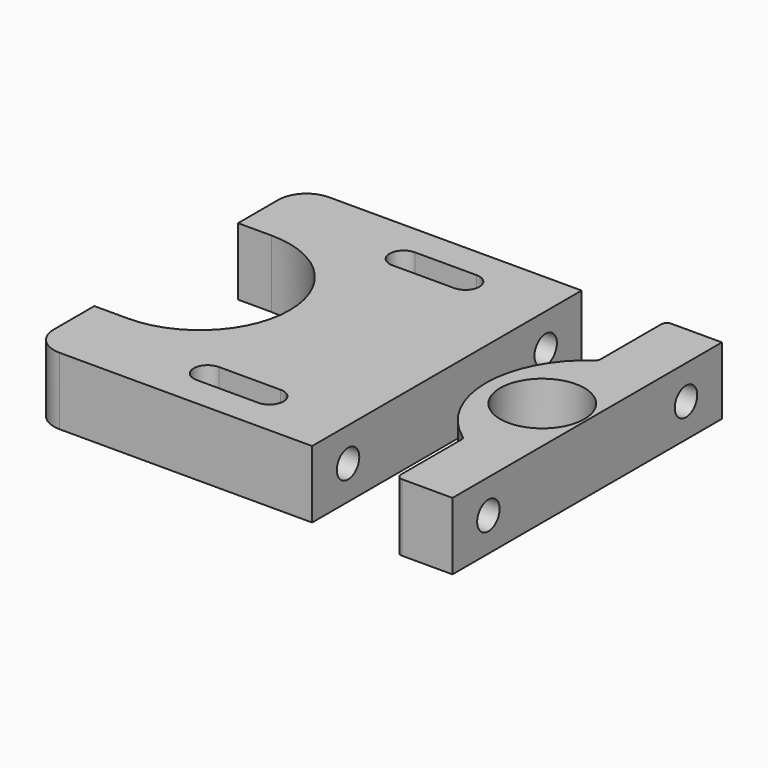
from build123d import *

# Parameters (mm, degrees)
F1_DEPTH  = 12
F2_R      = 2.5
F3_DEPTH  = 15
F4_R      = 5
F5_R      = 7.5
F6_DEPTH  = 12
F5_R_2    = 5
F7_DEPTH  = 2
F6_FACE_W = 60
F6_FACE_H = 12
F8_DEPTH  = 25
F9_R      = 1


with BuildPart() as f1:
    # F0 (on Top) → F1 (new body)
    with BuildSketch(Plane.XY):
        with BuildLine():
            Line((6.248017, -30), (6.248017, 0))
            Line((6.248017, 0), (6.248017, 30))
            Line((6.248017, 30), (-43.751983, 30))
            Line((-43.751983, 30), (-43.751983, 16))
            Line((-43.751983, 16), (-37.751983, 16))
            ThreePointArc((-37.751983, 16), (-21.751983, 0), (-37.751983, -16))
            Line((-37.751983, -16), (-43.751983, -16))
            Line((-43.751983, -16), (-43.751983, -30))
            Line((-43.751983, -30), (6.248017, -30))
        make_face()
        with BuildLine():
            ThreePointArc((-7.751983, -19.5), (-5.251983, -22), (-7.751983, -24.5))
            Line((-7.751983, -24.5), (-18.751983, -24.5))
            ThreePointArc((-18.751983, -24.5), (-21.251983, -22), (-18.751983, -19.5))
            Line((-18.751983, -19.5), (-7.751983, -19.5))
        make_face(mode=Mode.SUBTRACT)
        with BuildLine():
            ThreePointArc((-8.051984, 24.5), (-5.551984, 22), (-8.051984, 19.5))
            Line((-8.051984, 19.5), (-19.051984, 19.5))
            ThreePointArc((-19.051984, 19.5), (-21.551984, 22), (-19.051984, 24.5))
            Line((-19.051984, 24.5), (-8.051984, 24.5))
        make_face(mode=Mode.SUBTRACT)
    extrude(amount=F1_DEPTH)

    # F2 (on face) → F3 (cut)
    with BuildSketch(Plane.YZ.offset(6.248017)):
        with Locations((-22, 6)):
            Circle(F2_R)
        with Locations((22, 6)):
            Circle(F2_R)
    extrude(amount=-F3_DEPTH, mode=Mode.SUBTRACT)

    # F4
    f4_edges = [f1.edges().sort_by_distance(p)[0] for p in [
        (-43.751983, 30, 6),
        (-43.751983, -30, 6),
    ]]
    fillet(f4_edges, radius=F4_R)


with BuildPart() as f6:
    # F5 (on Top) → F6 (new body)
    with BuildSketch(Plane.XY):
        with BuildLine():
            Line((31.248017, 30), (21.248017, 30))
            Line((21.248017, 30), (21.248017, 15))
            ThreePointArc((21.248017, 15), (13.248017, 0), (21.248017, -15))
            Line((21.248017, -15), (21.248017, -30))
            Line((21.248017, -30), (31.248017, -30))
            Line((31.248017, -30), (31.248017, -15))
            Line((31.248017, -15), (31.248017, 15))
            Line((31.248017, 15), (31.248017, 30))
        make_face()
        with Locations((23.248017, 0)):
            Circle(F5_R, mode=Mode.SUBTRACT)
    extrude(amount=F6_DEPTH)

    # F5 (on Top) → F7 (join)
    with BuildSketch(Plane.XY):
        with Locations((23.248017, 0)):
            Circle(F5_R)
        with Locations((23.248017, 0)):
            Circle(F5_R_2, mode=Mode.SUBTRACT)
    extrude(amount=F7_DEPTH)

    # F2 (on face) + F6_face (on face) → F8 (cut)
    with BuildSketch(Plane.YZ.offset(6.248017)):
        with Locations((-22, 6)):
            Circle(F2_R)
        with Locations((22, 6)):
            Circle(F2_R)
    with BuildSketch(Plane(origin=(31.248017, 0, 6), x_dir=(0, 1, 0), z_dir=(1, 0, 0))):
        Rectangle(F6_FACE_W, F6_FACE_H)
    extrude(amount=F8_DEPTH, mode=Mode.SUBTRACT)

    # F9
    f9_edges = [f6.edges().sort_by_distance(p)[0] for p in [
        (21.248017, 30, 6),
        (21.248017, 15, 6),
        (21.248017, -15, 6),
        (21.248017, -30, 6),
    ]]
    fillet(f9_edges, radius=F9_R)


solid = Compound([f1.part, f6.part])
